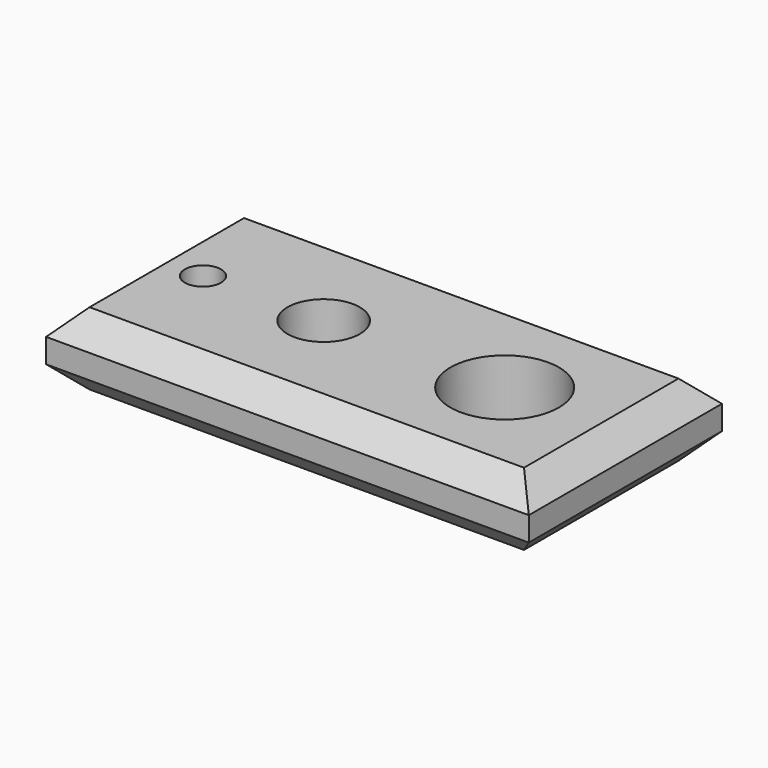
from build123d import *

# Parameters (mm, degrees)
F0_W     = 200
F0_H     = 100
F1_DEPTH = 30
F3_SIZE2 = 10
F3_SIZE  = 10
F2_R     = 7.5
F2_R_2   = 15
F2_R_3   = 22.5
F4_DEPTH = 30.001


with BuildPart() as f1:
    # F0 (on Top) → F1 (new body)
    with BuildSketch(Plane.XY):
        Rectangle(F0_W, F0_H)
    extrude(amount=F1_DEPTH)

    # F3
    f3_edges = [f1.edges().sort_by_distance(p)[0] for p in [
        (0, -50, 30),
        (100, 0, 30),
        (0, 50, 30),
        (-100, 0, 30),
        (0, -50, 0),
        (100, 0, 0),
        (-100, 0, 0),
        (0, 50, 0),
    ]]
    chamfer(f3_edges, length=F3_SIZE, length2=F3_SIZE2)

    # F2 (on face) → F4 (cut, through all)
    with BuildSketch(Plane.XY.offset(30)):
        with Locations((-75, 0)):
            Circle(F2_R)
        with Locations((-25, 0)):
            Circle(F2_R_2)
        with Locations((50, 0)):
            Circle(F2_R_3)
    extrude(amount=-F4_DEPTH, mode=Mode.SUBTRACT)


solid = f1.part
